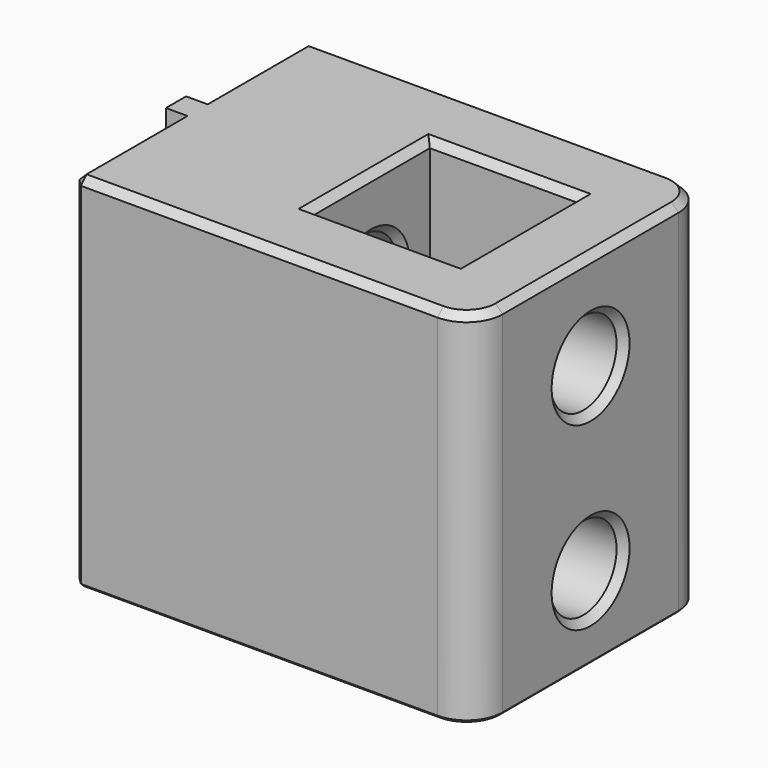
from build123d import *

# Parameters (mm, degrees)
SKETCH_W        = 20.5
SKETCH_H        = 20.5
PAD_DEPTH       = 50
SKETCH001_W     = 3.5
SKETCH001_H     = 13
POCKET_DEPTH    = 2
CHAMFER_SIZE    = 1.99
SKETCH002_R     = 2.15
POCKET001_DEPTH = 57.501
SKETCH003_R     = 5.75
POCKET002_DEPTH = 50
FILLET_R        = 5
CHAMFER001_SIZE = 1
CHAMFER002_SIZE = 0.4


with BuildPart() as part:
    # Sketch → Pad (new body)
    with BuildSketch(Plane.XY):
        Polygon((-35.25, 1.75), (-37.25, 1.75), (-37.25, -1.75), (-35.25, -1.75), (-35.25, -20.25), (20.25, -20.25), (20.25, 20.25), (-35.25, 20.25), align=None)
        Rectangle(SKETCH_W, SKETCH_H, mode=Mode.SUBTRACT)
    extrude(amount=PAD_DEPTH)

    # Sketch001 (on Face2 of Pad) → Pocket (cut)
    with BuildSketch(Plane(origin=(-37.25, 0, 0), x_dir=(0, -1, 0), z_dir=(-1, 0, 0))):
        with Locations((0, 36.5)):
            Rectangle(SKETCH001_W, SKETCH001_H)
        with Locations((0, 11.5)):
            Rectangle(SKETCH001_W, SKETCH001_H)
    extrude(amount=-POCKET_DEPTH, mode=Mode.SUBTRACT)

    # Chamfer
    chamfer_edges = [part.edges().sort_by_distance(p)[0] for p in [
        (-37.25, 0, 43),
        (-37.25, 0, 18),
    ]]
    chamfer(chamfer_edges, length=CHAMFER_SIZE)

    # Sketch002 (on Face17 of Chamfer) → Pocket001 (cut, through all)
    with BuildSketch(Plane.YZ.offset(20.25)):
        with Locations((0, 36.5)):
            Circle(SKETCH002_R)
        with Locations((0, 11.5)):
            Circle(SKETCH002_R)
    extrude(amount=-POCKET001_DEPTH, mode=Mode.SUBTRACT)

    # Sketch003 (on Face23 of Pocket001) → Pocket002 (cut)
    with BuildSketch(Plane.YZ.offset(20.25)):
        with Locations((0, 36.5)):
            Circle(SKETCH003_R)
        with Locations((0, 11.5)):
            Circle(SKETCH003_R)
    extrude(amount=-POCKET002_DEPTH, mode=Mode.SUBTRACT)

    # Fillet
    fillet_edges = [part.edges().sort_by_distance(p)[0] for p in [
        (20.25, -20.25, 25),
        (20.25, 20.25, 25),
    ]]
    fillet(fillet_edges, radius=FILLET_R)

    # Chamfer001
    chamfer001_edges = [part.edges().sort_by_distance(p)[0] for p in [
        (-35.25, 20.25, 25),
        (-35.25, -20.25, 25),
        (-10, -20.25, 50),
        (18.785534, -18.785534, 50),
        (20.25, 0, 50),
        (18.785534, 18.785534, 50),
        (-10, 20.25, 50),
        (0, 10.25, 50),
        (-10.25, 0, 50),
        (10.25, 0, 50),
        (0, -10.25, 50),
        (-35.25, 11, 50),
        (-35.25, -11, 50),
        (20.25, -5.75, 36.5),
        (-10.25, -5.75, 36.5),
        (-10.25, -5.75, 11.5),
        (10.25, -5.75, 36.5),
        (10.25, -5.75, 11.5),
        (20.25, -5.75, 11.5),
    ]]
    chamfer(chamfer001_edges, length=CHAMFER001_SIZE)

    # Chamfer002
    chamfer002_edges = [part.edges().sort_by_distance(p)[0] for p in [
        (-9.5, -20.25, 0),
        (-34.75, -19.75, 0),
        (18.785534, -18.785534, 0),
        (-35.25, -10.5, 0),
        (20.25, 0, 0),
        (-36.25, -1.75, 0),
        (18.785534, 18.785534, 0),
        (-37.25, 0, 0),
        (-9.5, 20.25, 0),
        (-36.25, 1.75, 0),
        (-34.75, 19.75, 0),
        (-35.25, 10.5, 0),
        (0, 10.25, 0),
        (10.25, 0, 0),
        (0, -10.25, 0),
        (-10.25, 0, 0),
    ]]
    chamfer(chamfer002_edges, length=CHAMFER002_SIZE)


solid = part.part
